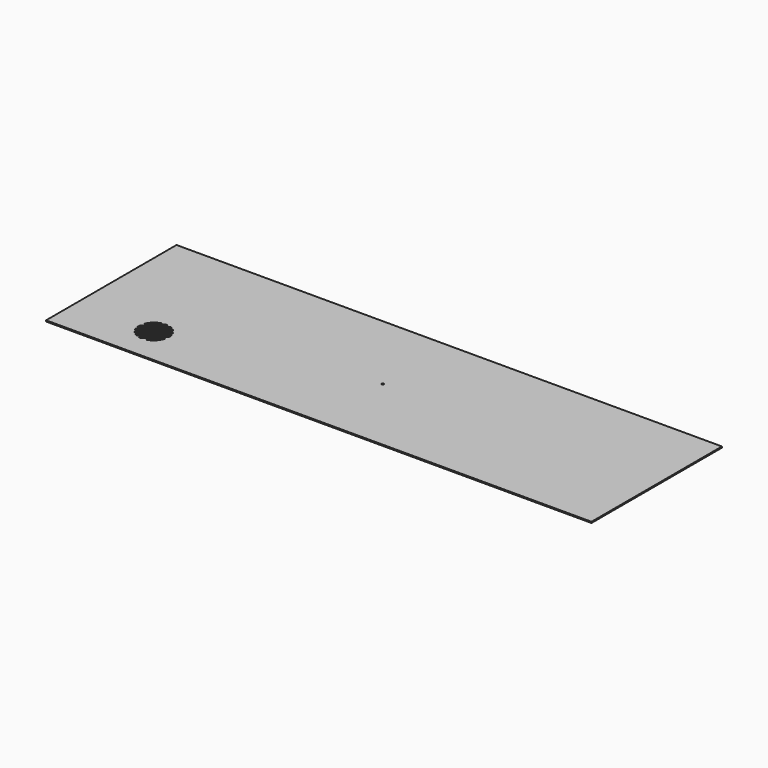
from build123d import *

# Parameters (mm, degrees)
F0_R     = 3
F1_DEPTH = 3


with BuildPart() as f1:
    # F0 (on Top) → F1 (new body)
    with BuildSketch(Plane.XY):
        Polygon((-624.433465, 389.957689), (-624.433465, -42.042311), (-157.433465, -42.042311), (353.566535, -42.042311), (820.566535, -42.042311), (820.566535, 389.957689), (353.566535, 389.957689), (-157.433465, 389.957689), align=None)
        with BuildLine():
            ThreePointArc((-379.90432, 48.743652), (-390.519598, 29.777375), (-409.485875, 19.162095))
            Line((-409.485875, 19.162095), (-379.90432, 48.743652))
        make_face(mode=Mode.SUBTRACT)
        with BuildLine():
            ThreePointArc((-420.451857, 18.095607), (-424.786685, 18.511601), (-429.050602, 19.396356))
            Line((-429.050602, 19.396356), (-380.138584, 68.30838))
            ThreePointArc((-380.138584, 68.30838), (-379.253828, 64.044462), (-378.837833, 59.709635))
            Line((-378.837833, 59.709635), (-420.451857, 18.095607))
        make_face(mode=Mode.SUBTRACT)
        with BuildLine():
            ThreePointArc((-435.307332, 21.624908), (-438.102034, 23.024794), (-440.778896, 24.638625))
            Line((-440.778896, 24.638625), (-385.380853, 80.036673))
            ThreePointArc((-385.380853, 80.036673), (-383.767022, 77.359811), (-382.367136, 74.565109))
            Line((-382.367136, 74.565109), (-435.307332, 21.624908))
        make_face(mode=Mode.SUBTRACT)
        with BuildLine():
            ThreePointArc((-445.567967, 28.334836), (-448.0679, 30.79231), (-450.34307, 33.459228))
            Line((-450.34307, 33.459228), (-394.201457, 89.600846))
            ThreePointArc((-394.201457, 89.600846), (-391.534539, 87.325676), (-389.077064, 84.825743))
            Line((-389.077064, 84.825743), (-445.567967, 28.334836))
        make_face(mode=Mode.SUBTRACT)
        with BuildLine():
            ThreePointArc((-453.727767, 38.559812), (-455.17638, 41.417109), (-456.391695, 44.381166))
            Line((-456.391695, 44.381166), (-405.123396, 95.64947))
            ThreePointArc((-405.123396, 95.64947), (-402.159338, 94.434155), (-399.302041, 92.985543))
            Line((-399.302041, 92.985543), (-453.727767, 38.559812))
        make_face(mode=Mode.SUBTRACT)
        with BuildLine():
            ThreePointArc((-458.1881, 51.070042), (-458.686122, 54.994724), (-458.794018, 58.949406))
            Line((-458.794018, 58.949406), (-419.691636, 98.051792))
            ThreePointArc((-419.691636, 98.051792), (-415.736954, 97.943896), (-411.812272, 97.445874))
            Line((-411.812272, 97.445874), (-458.1881, 51.070042))
        make_face(mode=Mode.SUBTRACT)
        with BuildLine():
            Line((-429.67175, 96.556959), (-457.299186, 68.92952))
            ThreePointArc((-457.299186, 68.92952), (-447.088143, 86.345914), (-429.67175, 96.556959))
        make_face(mode=Mode.SUBTRACT)
        with Locations((98.066535, 169.957689)):
            Circle(F0_R, mode=Mode.SUBTRACT)
    extrude(amount=F1_DEPTH)


solid = f1.part
